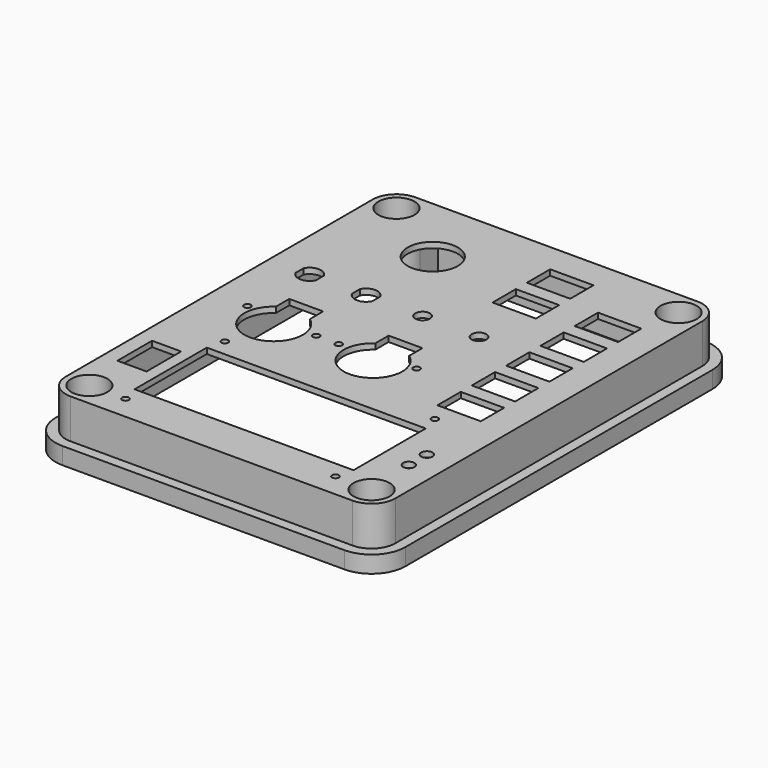
from build123d import *

# Parameters (mm, degrees)
SKETCH_W        = 155
SKETCH_H        = 200
PAD_DEPTH       = 25
POCKET_DEPTH    = 22.5
FILLET_R        = 15
SKETCH002_R     = 5
POCKET001_DEPTH = 25.001
SKETCH003_R     = 8
POCKET002_DEPTH = 16
POCKET003_DEPTH = 17.5
POCKET004_DEPTH = 17.5
SKETCH006_R     = 1.5
SKETCH006_W     = 97
SKETCH006_H     = 40
POCKET005_DEPTH = 2.501
SKETCH007_R     = 11.125
SKETCH007_R_2   = 1.5
SKETCH007_R_3   = 3.25
SKETCH007_R_4   = 2.5
SKETCH007_W     = 19.2
SKETCH007_H     = 12.9
SKETCH007_W_2   = 12.9
SKETCH007_H_2   = 19.2
POCKET006_DEPTH = 5


with BuildPart() as part:
    # Sketch → Pad (new body)
    with BuildSketch(Plane.XY):
        with Locations((77.5, 100)):
            Rectangle(SKETCH_W, SKETCH_H)
    extrude(amount=PAD_DEPTH)

    # Sketch001 (on Face5 of Pad) → Pocket (cut)
    with BuildSketch(Plane(origin=(0, 0, 0), x_dir=(1, 0, 0), z_dir=(0, 0, -1))):
        with BuildLine():
            ThreePointArc((17.500001, -27.5), (24.571081, -24.571055), (27.5, -17.499964))
            Line((27.5, -17.499964), (27.5, -7.5))
            Line((27.5, -7.5), (127.5, -7.5))
            Line((127.5, -7.5), (127.5, -17.500001))
            ThreePointArc((127.5, -17.500001), (130.428932, -24.571068), (137.499999, -27.5))
            Line((137.499999, -27.5), (147.5, -27.5))
            Line((147.5, -27.5), (147.5, -172.5))
            Line((147.5, -172.5), (137.499999, -172.5))
            ThreePointArc((137.499999, -172.5), (130.428932, -175.428932), (127.5, -182.499998))
            Line((127.5, -192.5), (127.5, -182.499998))
            Line((27.5, -192.5), (127.5, -192.5))
            Line((27.5, -182.499999), (27.5, -192.5))
            ThreePointArc((27.5, -182.499999), (24.571068, -175.428932), (17.500001, -172.5))
            Line((17.500001, -172.5), (7.5, -172.5))
            Line((7.5, -172.5), (7.5, -27.5))
            Line((7.5, -27.5), (17.500001, -27.5))
        make_face()
    extrude(amount=-POCKET_DEPTH, mode=Mode.SUBTRACT)

    # Fillet
    fillet_edges = [part.edges().sort_by_distance(p)[0] for p in [
        (155, 0, 12.5),
        (155, 200, 12.5),
        (0, 0, 12.5),
        (0, 200, 12.5),
    ]]
    fillet(fillet_edges, radius=FILLET_R)

    # Sketch002 (on Face2 of Fillet) → Pocket001 (cut, through all)
    with BuildSketch(Plane(origin=(0, 0, 0), x_dir=(1, 0, 0), z_dir=(0, 0, -1))):
        with Locations((15, -15)):
            Circle(SKETCH002_R)
        with Locations((140, -15)):
            Circle(SKETCH002_R)
        with Locations((140, -185)):
            Circle(SKETCH002_R)
        with Locations((15, -185)):
            Circle(SKETCH002_R)
    extrude(amount=-POCKET001_DEPTH, mode=Mode.SUBTRACT)

    # Sketch003 (on Face5 of Pocket001) → Pocket002 (cut)
    with BuildSketch(Plane.XY.offset(25)):
        with Locations((15, 185)):
            Circle(SKETCH003_R)
        with Locations((140, 185)):
            Circle(SKETCH003_R)
        with Locations((140, 15)):
            Circle(SKETCH003_R)
        with Locations((15, 15)):
            Circle(SKETCH003_R)
    extrude(amount=-POCKET002_DEPTH, mode=Mode.SUBTRACT)

    # Sketch004 (on Face5 of Pocket002) → Pocket003 (cut)
    with BuildSketch(Plane.XY.offset(25)):
        with BuildLine():
            ThreePointArc((15, 200), (4.393398, 195.606602), (0, 185))
            Line((0, 15), (0, 185))
            ThreePointArc((0, 15), (4.393398, 4.393398), (15, 0))
            Line((140, 0), (15, 0))
            ThreePointArc((140, 0), (150.606602, 4.393398), (155, 15))
            Line((155, 185), (155, 15))
            ThreePointArc((155, 185), (150.606602, 195.606602), (140, 200))
            Line((15, 200), (140, 200))
        make_face()
        with BuildLine():
            ThreePointArc((15, 195.5), (7.575379, 192.424621), (4.5, 185))
            Line((4.5, 185), (4.5, 15))
            ThreePointArc((4.5, 15), (7.575379, 7.575379), (15, 4.5))
            Line((15, 4.5), (140, 4.5))
            ThreePointArc((140, 4.5), (147.424621, 7.575379), (150.5, 15))
            Line((150.5, 15), (150.5, 184.999955))
            ThreePointArc((150.5, 184.999955), (147.424637, 192.424605), (140, 195.5))
            Line((15, 195.5), (140, 195.5))
        make_face(mode=Mode.SUBTRACT)
    extrude(amount=POCKET003_DEPTH, mode=Mode.SUBTRACT)

    # Sketch004 (on Face5 of Pocket002) → Pocket004 (cut)
    with BuildSketch(Plane.XY.offset(25)):
        with BuildLine():
            ThreePointArc((15, 200), (4.393398, 195.606602), (0, 185))
            Line((0, 15), (0, 185))
            ThreePointArc((0, 15), (4.393398, 4.393398), (15, 0))
            Line((140, 0), (15, 0))
            ThreePointArc((140, 0), (150.606602, 4.393398), (155, 15))
            Line((155, 185), (155, 15))
            ThreePointArc((155, 185), (150.606602, 195.606602), (140, 200))
            Line((15, 200), (140, 200))
        make_face()
        with BuildLine():
            ThreePointArc((15, 195.5), (7.575379, 192.424621), (4.5, 185))
            Line((4.5, 185), (4.5, 15))
            ThreePointArc((4.5, 15), (7.575379, 7.575379), (15, 4.5))
            Line((15, 4.5), (140, 4.5))
            ThreePointArc((140, 4.5), (147.424621, 7.575379), (150.5, 15))
            Line((150.5, 15), (150.5, 184.999955))
            ThreePointArc((150.5, 184.999955), (147.424637, 192.424605), (140, 195.5))
            Line((15, 195.5), (140, 195.5))
        make_face(mode=Mode.SUBTRACT)
    extrude(amount=-POCKET004_DEPTH, mode=Mode.SUBTRACT)

    # Sketch006 (on Face40 of Pocket004) → Pocket005 (cut, through all)
    with BuildSketch(Plane(origin=(0, 0, 22.5), x_dir=(1, 0, 0), z_dir=(0, 0, -1))):
        with Locations((31, -15)):
            Circle(SKETCH006_R)
        with Locations((124, -15)):
            Circle(SKETCH006_R)
        with Locations((124, -70)):
            Circle(SKETCH006_R)
        with Locations((31, -70)):
            Circle(SKETCH006_R)
        with Locations((77.5, -42.5)):
            Rectangle(SKETCH006_W, SKETCH006_H)
    extrude(amount=-POCKET005_DEPTH, mode=Mode.SUBTRACT)

    # Sketch007 (on Face40 of Pocket005) → Pocket006 (cut)
    with BuildSketch(Plane(origin=(0, 0, 22.5), x_dir=(1, 0, 0), z_dir=(0, 0, -1))):
        with Locations((47.5, -164.5)):
            Circle(SKETCH007_R)
        with Locations((20.5, -95.6)):
            Circle(SKETCH007_R_2)
        with Locations((95.5, -95.6)):
            Circle(SKETCH007_R_2)
        with Locations((53, -93.05)):
            Circle(SKETCH007_R_2)
        with Locations((63, -93.05)):
            Circle(SKETCH007_R_2)
        with Locations((72.5, -127.6)):
            Circle(SKETCH007_R_3)
        with Locations((97.5, -127.6)):
            Circle(SKETCH007_R_3)
        with Locations((138.5, -37.5)):
            Circle(SKETCH007_R_4)
        with Locations((138.5, -47.5)):
            Circle(SKETCH007_R_4)
        with Locations((127.9, -85.05)):
            Rectangle(SKETCH007_W, SKETCH007_H)
        with Locations((127.9, -123.05)):
            Rectangle(SKETCH007_W, SKETCH007_H)
        with Locations((127.9, -142.05)):
            Rectangle(SKETCH007_W, SKETCH007_H)
        with Locations((127.9, -161.05)):
            Rectangle(SKETCH007_W, SKETCH007_H)
        with Locations((127.9, -104.05)):
            Rectangle(SKETCH007_W, SKETCH007_H)
        with BuildLine():
            ThreePointArc((87.5, -101.41838), (80, -77.8), (72.5, -101.41838))
            Line((72.5, -101.41838), (72.5, -108.8))
            Line((72.5, -108.8), (87.5, -108.8))
            Line((87.5, -108.8), (87.5, -101.41838))
        make_face()
        with BuildLine():
            ThreePointArc((43.5, -101.41838), (36, -77.8), (28.5, -101.41838))
            Line((28.5, -101.41838), (28.5, -108.8))
            Line((28.5, -108.8), (43.5, -108.8))
            Line((43.5, -101.41838), (43.5, -108.8))
        make_face()
        with Locations((94.7, -157.05)):
            Rectangle(SKETCH007_W, SKETCH007_H)
        with Locations((94.7, -176.05)):
            Rectangle(SKETCH007_W, SKETCH007_H)
        with Locations((17.45, -45.1)):
            Rectangle(SKETCH007_W_2, SKETCH007_H_2)
        with BuildLine():
            Line((27, -125.420551), (27, -129.779449))
            ThreePointArc((18, -129.779449), (22.5, -132.6), (27, -129.779449))
            Line((18, -129.779449), (18, -125.420551))
            ThreePointArc((27, -125.420551), (22.5, -122.6), (18, -125.420551))
        make_face()
        with BuildLine():
            Line((52, -125.420551), (52, -129.779449))
            ThreePointArc((43, -129.779449), (47.5, -132.6), (52, -129.779449))
            Line((43, -129.779449), (43, -125.420551))
            ThreePointArc((52, -125.420551), (47.5, -122.6), (43, -125.420551))
        make_face()
    extrude(amount=-POCKET006_DEPTH, mode=Mode.SUBTRACT)


with BuildPart() as part_1:
    # Body placement: moved
    add(part.part.moved(Location((-15, -15, -25))))


solid = part_1.part
